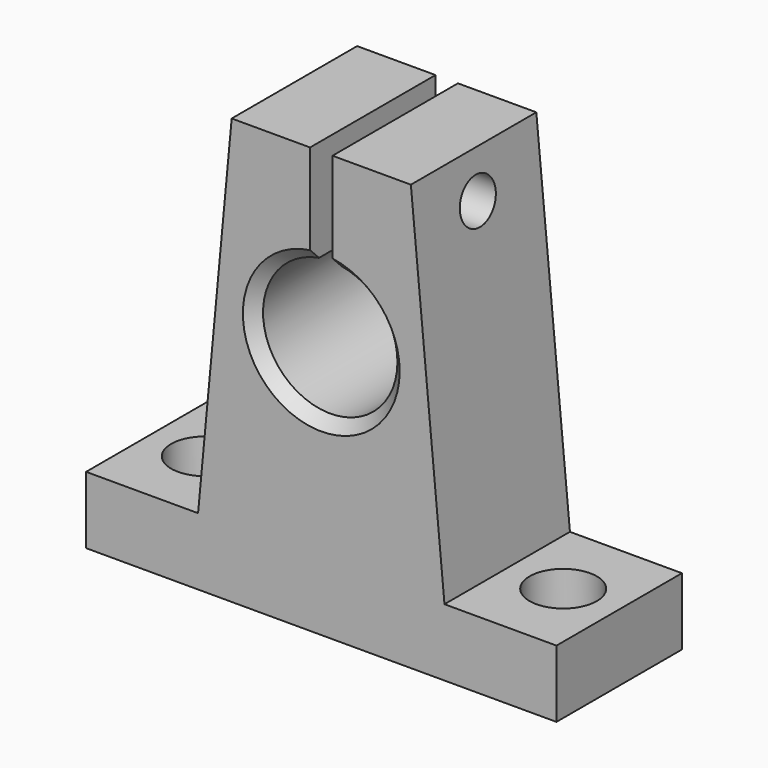
from build123d import *

# Parameters (mm, degrees)
F1_DEPTH = 14
F2_R     = 3
F3_DEPTH = 38.001
F4_SIZE  = 1
F5_R     = 2
F6_DEPTH = 42.001
F7_ANGLE = 90


with BuildPart() as f1:
    # F0 (on Top) → F1 (new body)
    with BuildSketch(Plane.XY):
        with BuildLine():
            Line((-21, 6), (-21, 0))
            Line((-21, 0), (21, 0))
            Line((21, 0), (21, 6))
            Line((21, 6), (11, 6))
            Line((11, 6), (8, 38))
            Line((8, 38), (1, 38))
            Line((1, 38), (1, 28.91608))
            ThreePointArc((1, 28.91608), (4.582576, 26.872983), (6, 23))
            ThreePointArc((6, 23), (-3.872983, 18.417424), (-1, 28.91608))
            Line((-1, 28.91608), (-1, 38))
            Line((-1, 38), (-8, 38))
            Line((-8, 38), (-11, 6))
            Line((-11, 6), (-21, 6))
        make_face()
    extrude(amount=F1_DEPTH)

    # F2 (on face) → F3 (cut, through all)
    with BuildSketch(Plane.XZ):
        with Locations((-16, 7)):
            Circle(F2_R)
        with Locations((16, 7)):
            Circle(F2_R)
    extrude(amount=-F3_DEPTH, mode=Mode.SUBTRACT)

    # F4
    f4_edges = [f1.edges().sort_by_distance(p)[0] for p in [
        (0, 17, 14),
        (0, 17, 0),
    ]]
    chamfer(f4_edges, length=F4_SIZE)

    # F5 (on face) → F6 (cut, through all)
    with BuildSketch(Plane(origin=(-21, 0, 0), x_dir=(0, -1, 0), z_dir=(-1, 0, 0))):
        with Locations((-34, 7)):
            Circle(F5_R)
    extrude(amount=-F6_DEPTH, mode=Mode.SUBTRACT)


with BuildPart() as f1_1:
    # F7: moved
    add(f1.part.rotate(Axis((0, 0, 0), (1, 0, 0)), F7_ANGLE))


solid = f1_1.part
